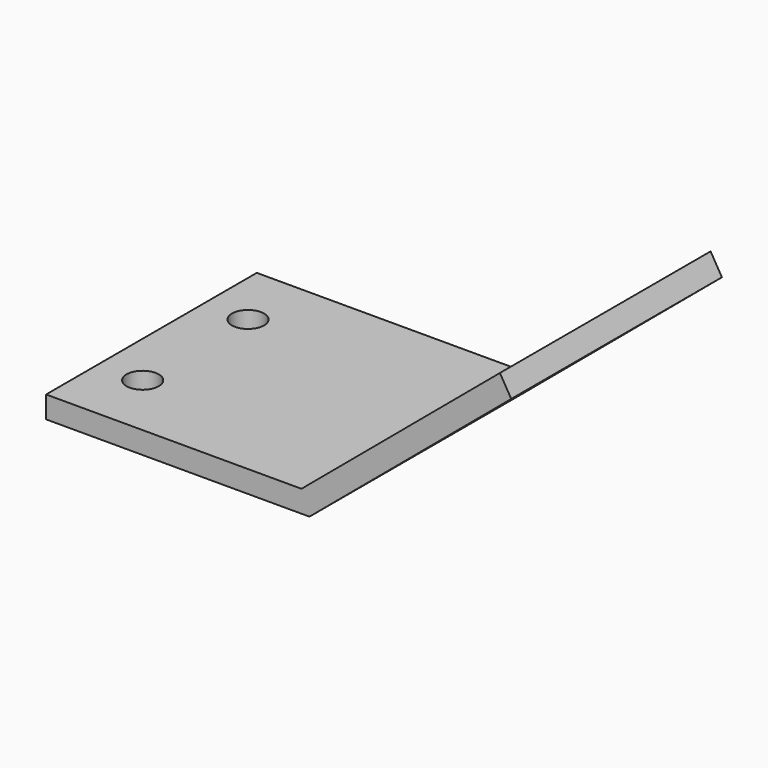
from build123d import *

# Parameters (mm, degrees)
F1_DEPTH = 36
F2_R     = 2.2
F3_DEPTH = 3.001


with BuildPart() as f1:
    # F0 (on Front) → F1 (new body)
    with BuildSketch(Plane.XZ):
        Polygon((-36, 0), (0, 0), (27.5776, 23.140354), (26.033813, 25.761185), (-1.091911, 3), (-36, 3), align=None)
    extrude(amount=F1_DEPTH)

    # F2 (on face) → F3 (cut, through all)
    with BuildSketch(Plane.XY.offset(3)):
        with Locations((-30, -9)):
            Circle(F2_R)
        with Locations((-30, -27)):
            Circle(F2_R)
    extrude(amount=-F3_DEPTH, mode=Mode.SUBTRACT)


solid = f1.part
